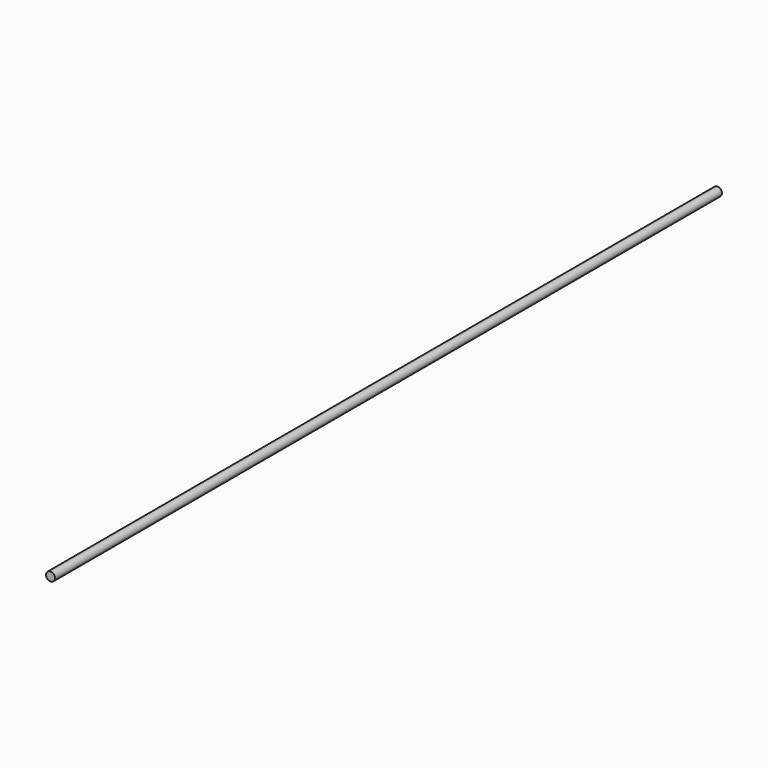
from build123d import *

# Parameters (mm, degrees)
F0_R = 0.25


with BuildPart() as f2:
    # F2: sweep along a path in F1
    with BuildLine(Plane.XY) as f2_path:
        Line((0, 0), (0, 46.92142))
    # F0 (on Front) → F2 (sweep)
    with BuildSketch(Plane.XZ):
        Circle(F0_R)
    sweep(path=f2_path.line)


solid = f2.part
